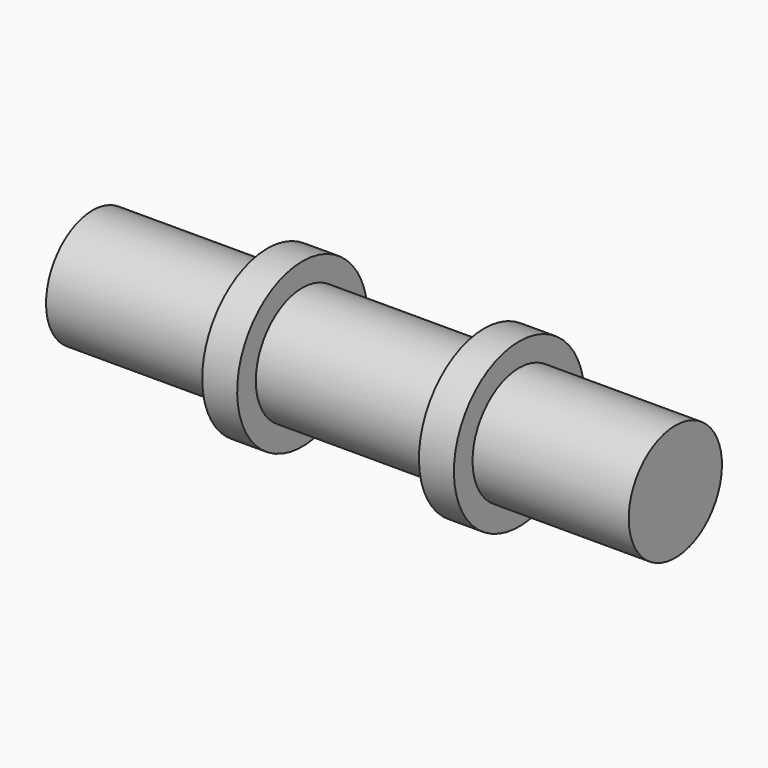
from build123d import *

# Parameters (mm, degrees)
F0_W = 6
F0_H = 4


with BuildPart() as f1:
    # F0 (on Front) → F1 (revolve)
    with BuildSketch(Plane.XZ):
        Polygon((0, 10), (0, 0), (100, 0), (100, 10), (73.2, 10), (67.2, 10), (36, 10), (30, 10), align=None)
    revolve(axis=Axis((1.207729, 0, 0), (1, 0, 0)))


with BuildPart() as f2:
    # F0 (on Front) → F2 (revolve)
    with BuildSketch(Plane.XZ):
        with Locations((70.2, 12)):
            Rectangle(F0_W, F0_H)
        with Locations((33, 12)):
            Rectangle(F0_W, F0_H)
    revolve(axis=Axis((50, 0, 0), (-1, 0, 0)))


solid = Compound([f1.part, f2.part])
